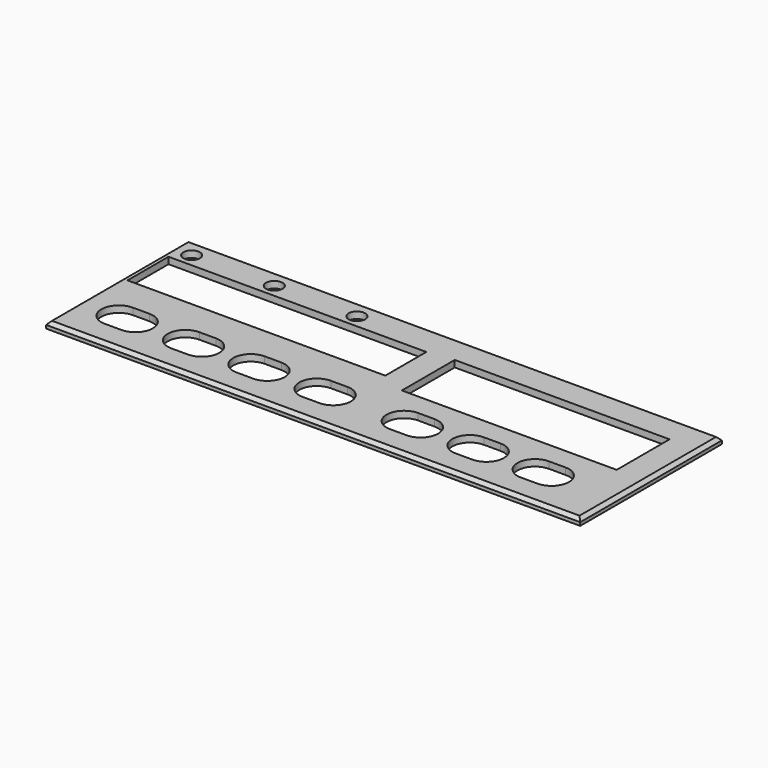
from build123d import *

# Parameters (mm, degrees)
F0_W     = 161.6
F0_H     = 53.6
F0_W_2   = 78
F0_H_2   = 15.5
F0_W_3   = 65
F0_H_3   = 20
F1_DEPTH = 2
F2_D     = 5
F3_SIZE  = 1


with BuildPart() as f1:
    # F0 (on Top) → F1 (new body)
    with BuildSketch(Plane.XY):
        with Locations((0, -81.2946302295)):
            Rectangle(F0_W, F0_H)
        with BuildLine():
            ThreePointArc((-69.1, -100.4946302295), (-74.4, -95.1946302295), (-69.1, -89.8946302295))
            Line((-69.1, -89.8946302295), (-64.1, -89.8946302295))
            ThreePointArc((-64.1, -89.8946302295), (-58.8, -95.1946302295), (-64.1, -100.4946302295))
            Line((-64.1, -100.4946302295), (-69.1, -100.4946302295))
        make_face(mode=Mode.SUBTRACT)
        with BuildLine():
            ThreePointArc((-49, -100.4946302295), (-54.3, -95.1946302295), (-49, -89.8946302295))
            Line((-49, -89.8946302295), (-44, -89.8946302295))
            ThreePointArc((-44, -89.8946302295), (-38.7, -95.1946302295), (-44, -100.4946302295))
            Line((-44, -100.4946302295), (-49, -100.4946302295))
        make_face(mode=Mode.SUBTRACT)
        with BuildLine():
            ThreePointArc((-29.2, -100.4946302295), (-34.5, -95.1946302295), (-29.2, -89.8946302295))
            Line((-29.2, -89.8946302295), (-24.2, -89.8946302295))
            ThreePointArc((-24.2, -89.8946302295), (-18.9, -95.1946302295), (-24.2, -100.4946302295))
            Line((-24.2, -100.4946302295), (-29.2, -100.4946302295))
        make_face(mode=Mode.SUBTRACT)
        with BuildLine():
            ThreePointArc((-9.2, -100.4946302295), (-14.5, -95.1946302295), (-9.2, -89.8946302295))
            Line((-9.2, -89.8946302295), (-4.2, -89.8946302295))
            ThreePointArc((-4.2, -89.8946302295), (1.1, -95.1946302295), (-4.2, -100.4946302295))
            Line((-4.2, -100.4946302295), (-9.2, -100.4946302295))
        make_face(mode=Mode.SUBTRACT)
        with BuildLine():
            ThreePointArc((17.2, -100.4946302295), (11.9, -95.1946302295), (17.2, -89.8946302295))
            Line((17.2, -89.8946302295), (22.2, -89.8946302295))
            ThreePointArc((22.2, -89.8946302295), (27.5, -95.1946302295), (22.2, -100.4946302295))
            Line((22.2, -100.4946302295), (17.2, -100.4946302295))
        make_face(mode=Mode.SUBTRACT)
        with BuildLine():
            ThreePointArc((37.1, -100.4946302295), (31.8, -95.1946302295), (37.1, -89.8946302295))
            Line((37.1, -89.8946302295), (42.1, -89.8946302295))
            ThreePointArc((42.1, -89.8946302295), (47.4, -95.1946302295), (42.1, -100.4946302295))
            Line((42.1, -100.4946302295), (37.1, -100.4946302295))
        make_face(mode=Mode.SUBTRACT)
        with BuildLine():
            ThreePointArc((56.8, -100.4946302295), (51.5, -95.1946302295), (56.8, -89.8946302295))
            Line((56.8, -89.8946302295), (61.8, -89.8946302295))
            ThreePointArc((61.8, -89.8946302295), (67.1, -95.1946302295), (61.8, -100.4946302295))
            Line((61.8, -100.4946302295), (56.8, -100.4946302295))
        make_face(mode=Mode.SUBTRACT)
        with Locations((-39.8, -72.0446302295)):
            Rectangle(F0_W_2, F0_H_2, mode=Mode.SUBTRACT)
        with Locations((39.5, -73.2946302295)):
            Rectangle(F0_W_3, F0_H_3, mode=Mode.SUBTRACT)
    extrude(amount=F1_DEPTH)

    # F2 (through all)
    with Locations(Plane(origin=(0, 0, 0), x_dir=(1, 0, 0), z_dir=(0, 0, -1))):
        with Locations((-75, 60.2946302295), (-50, 60.2946302295), (-25, 60.2946302295)):
            Hole(F2_D / 2)

    # F3
    f3_edges = [f1.edges().sort_by_distance(p)[0] for p in [
        (-80.8, -81.29463, 2),
        (0, -108.09463, 2),
        (0, -54.49463, 2),
        (80.8, -81.29463, 2),
    ]]
    chamfer(f3_edges, length=F3_SIZE)


solid = f1.part
